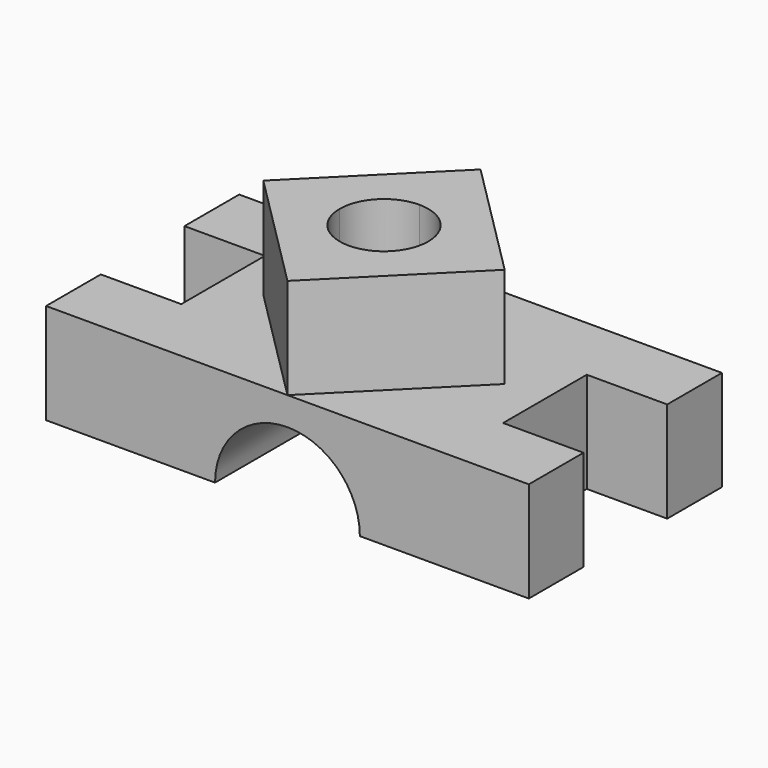
from build123d import *

# Parameters (mm, degrees)
F0_W      = 120
F0_H      = 60
F1_DEPTH  = 25
F2_W      = 20
F2_H      = 26
F3_DEPTH  = 25.001
F4_W      = 20
F4_H      = 26
F5_DEPTH  = 25.001
F7_DEPTH  = 25
F8_DEPTH  = 35.001
F10_DEPTH = 25


with BuildPart() as f1:
    # F0 (on Top) → F1 (new body)
    with BuildSketch(Plane.XY):
        Rectangle(F0_W, F0_H)
    extrude(amount=F1_DEPTH)

    # F2 (on face) → F3 (cut, through all)
    with BuildSketch(Plane.XY.offset(25)):
        with Locations((50, 0)):
            Rectangle(F2_W, F2_H)
    extrude(amount=-F3_DEPTH, mode=Mode.SUBTRACT)

    # F4 (on face) → F5 (cut, through all)
    with BuildSketch(Plane.XY.offset(25)):
        with Locations((-50, 0)):
            Rectangle(F4_W, F4_H)
    extrude(amount=-F5_DEPTH, mode=Mode.SUBTRACT)

    # F6 (on face) → F7 (cut)
    with BuildSketch(Plane.XZ.offset(30)):
        with BuildLine():
            Line((-18, 0), (18, 0))
            ThreePointArc((18, 0), (0, 18), (-18, 0))
        make_face()
    extrude(amount=-F7_DEPTH, mode=Mode.SUBTRACT)

    # F8 (cut, through all): a face of the model
    f8_faces = [f1.faces().sort_by_distance(p)[0] for p in [
        (0, -5, 7.6394372684),
    ]]
    extrude(f8_faces, amount=-F8_DEPTH, mode=Mode.SUBTRACT)

    # F9 (on face) → F10 (join)
    with BuildSketch(Plane.XY.offset(25)):
        with BuildLine():
            ThreePointArc((0, 11), (7.7781745931, 7.7781745931), (11, 0))
            Line((11, 0), (30, 0))
            Line((30, 0), (0, 30))
            Line((0, 30), (0, 11))
        make_face()
        with BuildLine():
            ThreePointArc((-11, 0), (-7.7781745931, 7.7781745931), (0, 11))
            Line((0, 11), (0, 30))
            Line((0, 30), (-30, 0))
            Line((-30, 0), (-11, 0))
        make_face()
        with BuildLine():
            Line((0, -30), (0, -11))
            ThreePointArc((0, -11), (-7.7781745931, -7.7781745931), (-11, 0))
            Line((-11, 0), (-30, 0))
            Line((-30, 0), (0, -30))
        make_face()
        with BuildLine():
            Line((30, 0), (11, 0))
            ThreePointArc((11, 0), (7.7781745931, -7.7781745931), (0, -11))
            Line((0, -11), (0, -30))
            Line((0, -30), (30, 0))
        make_face()
    extrude(amount=F10_DEPTH)


solid = f1.part
